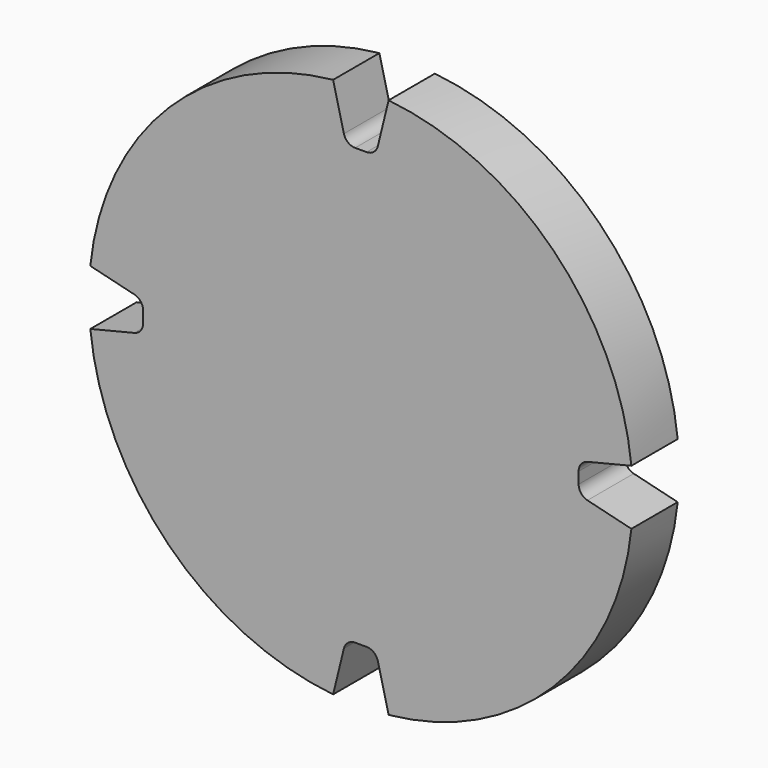
from build123d import *

# Parameters (mm, degrees)
F0_R     = 117.5
F1_DEPTH = 12.5
F3_DEPTH = 12.5
F4_COUNT = 4


with BuildPart() as f1:
    # F0 (on Front) → F1 (new body, symmetric)
    with BuildSketch(Plane.XZ):
        Circle(F0_R)
    extrude(amount=F1_DEPTH, both=True)

    # F2 (on Front) → F3 (cut, symmetric)
    with BuildSketch(Plane.XZ):
        with BuildLine():
            Line((7.3289173795, 97.9024141661), (11.9843448736, 116.8872340247))
            ThreePointArc((11.9843448736, 116.8872340247), (0, 117.5), (-11.9843448736, 116.8872340247))
            Line((-11.9843448736, 116.8872340247), (-7.3289173795, 97.9024141661))
            ThreePointArc((-7.3289173795, 97.9024141661), (-5.5587216743, 95.1591403196), (-2.4727905872, 94.0932258964))
            Line((-2.4727905872, 94.0932258964), (2.4727905872, 94.0932258964))
            ThreePointArc((2.4727905872, 94.0932258964), (5.5587216743, 95.1591403196), (7.3289173795, 97.9024141661))
        make_face()
    f3 = extrude(amount=F3_DEPTH, both=True, mode=Mode.SUBTRACT)

    # F4: F3 ×4 about axis
    f4_axis = Axis((0, 0, 0), (0, -1, 0))
    for i in range(1, F4_COUNT):
        add(f3.rotate(f4_axis, i * 360 / F4_COUNT), mode=Mode.SUBTRACT)


solid = f1.part
